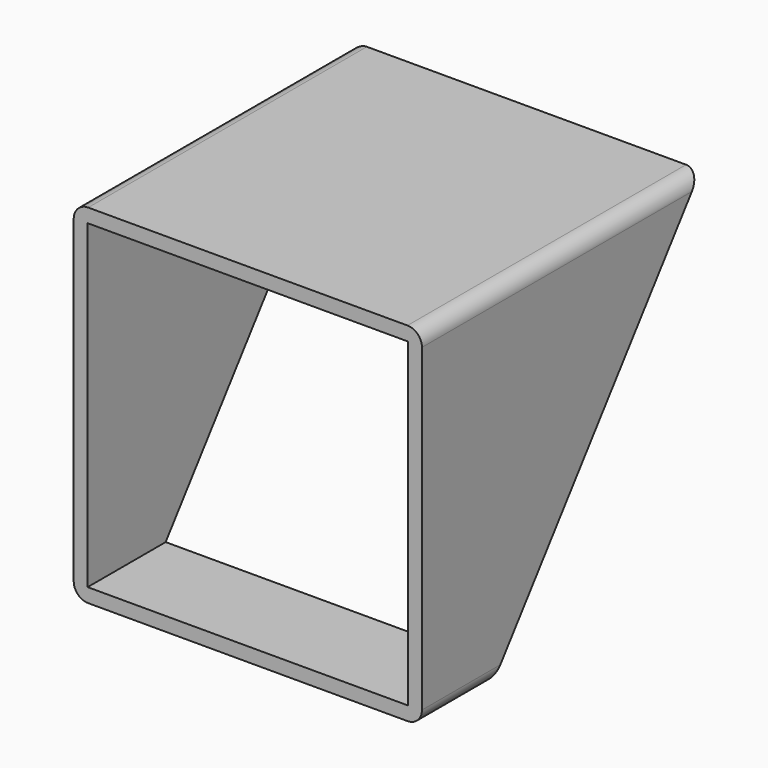
from build123d import *

# Parameters (mm, degrees)
F0_W     = 76.2
F0_H     = 76.2
F0_W_2   = 70.104
F0_H_2   = 70.104
F1_DEPTH = 241.3
F3_DEPTH = 76.201
F4_W     = 165.1
F4_H     = 76.2
F5_DEPTH = 76.201
F6_R     = 3.175


with BuildPart() as f1:
    # F0 (on Front) → F1 (new body)
    with BuildSketch(Plane.XZ):
        Rectangle(F0_W, F0_H)
        Rectangle(F0_W_2, F0_H_2, mode=Mode.SUBTRACT)
    extrude(amount=F1_DEPTH)

    # F2 (on face) → F3 (cut, through all)
    with BuildSketch(Plane.YZ.offset(38.1)):
        Polygon((0, -38.1), (0, 38.1), (-57.15, -38.1), align=None)
    extrude(amount=-F3_DEPTH, mode=Mode.SUBTRACT)

    # F4 (on face) → F5 (cut, through all)
    with BuildSketch(Plane.YZ.offset(38.1)):
        with Locations((-158.75, 0)):
            Rectangle(F4_W, F4_H)
    extrude(amount=-F5_DEPTH, mode=Mode.SUBTRACT)

    # F6
    f6_edges = [f1.edges().sort_by_distance(p)[0] for p in [
        (38.1, -38.1, 38.1),
        (-38.1, -38.1, 38.1),
        (-38.1, -66.675, -38.1),
        (38.1, -66.675, -38.1),
    ]]
    fillet(f6_edges, radius=F6_R)


solid = f1.part
